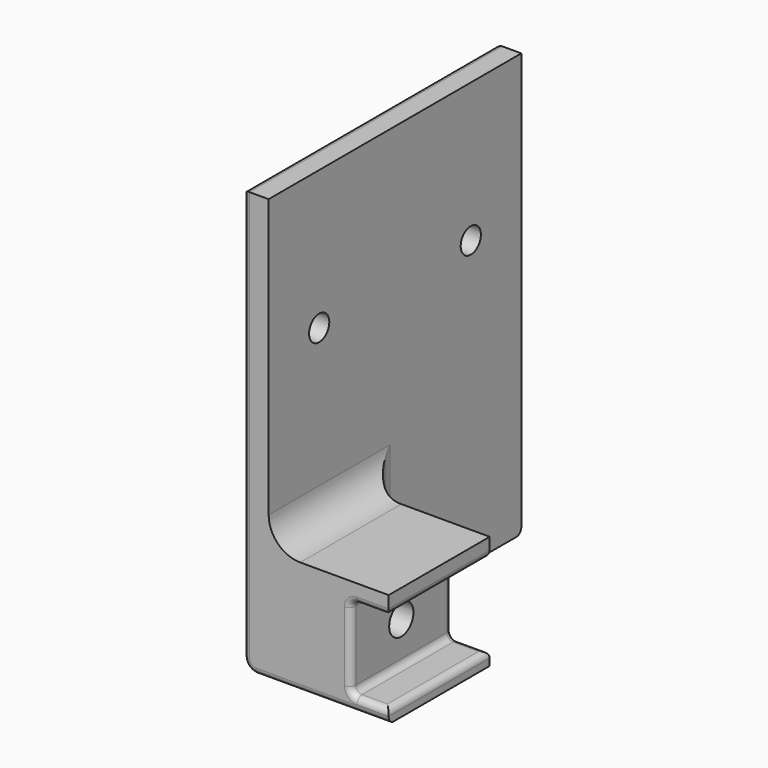
from build123d import *

# Parameters (mm, degrees)
PAD008_DEPTH    = 50
SKETCH046_R     = 2.4
SKETCH046_R_2   = 2
POCKET024_DEPTH = 30
SKETCH047_W     = 30
SKETCH047_H     = 35
POCKET025_DEPTH = 30
POCKET026_DEPTH = 5
FILLET014_R     = 4
FILLET015_R     = 1
FILLET016_R     = 1


with BuildPart() as part:
    # Sketch045 → Pad008 (new body)
    with BuildSketch(Plane.XZ):
        with BuildLine():
            Line((0, 47), (0, -18))
            ThreePointArc((0, -18), (0.585786, -19.414214), (2, -20))
            Line((2, -20), (23, -20))
            Line((23, -20), (23, -17.9))
            Line((17, -17.9), (23, -17.9))
            Line((17, -4.9), (17, -17.9))
            Line((17, -4.9), (23, -4.9))
            Line((23, -4.9), (23, -2))
            Line((23, -2), (9, -2))
            ThreePointArc((4, 3), (5.464466, -0.535534), (9, -2))
            Line((4, 3), (4, 47))
            Line((4, 47), (0, 47))
        make_face()
    extrude(amount=-PAD008_DEPTH)

    # Sketch046 → Pocket024 (cut)
    with BuildSketch(Plane.YZ):
        with Locations((10, -11.4)):
            Circle(SKETCH046_R)
        with Locations((10, 25)):
            Circle(SKETCH046_R_2)
        with Locations((40, 25)):
            Circle(SKETCH046_R_2)
    extrude(amount=POCKET024_DEPTH, mode=Mode.SUBTRACT)

    # Sketch047 → Pocket025 (cut)
    with BuildSketch(Plane.YZ.offset(4)):
        with Locations((35, -2.5)):
            Rectangle(SKETCH047_W, SKETCH047_H)
    extrude(amount=POCKET025_DEPTH, mode=Mode.SUBTRACT)

    # Sketch048 → Pocket026 (cut)
    with BuildSketch(Plane.YZ):
        Polygon((5.438933, -11.4), (7.719466, -15.35), (12.280534, -15.35), (14.561067, -11.4), (12.280534, -7.45), (7.719466, -7.45), align=None)
    extrude(amount=POCKET026_DEPTH, mode=Mode.SUBTRACT)

    # Fillet014
    fillet014_edges = [part.edges().sort_by_distance(p)[0] for p in [
        (4, 20, -8.5),
    ]]
    fillet(fillet014_edges, radius=FILLET014_R)

    # Fillet015
    fillet015_edges = [part.edges().sort_by_distance(p)[0] for p in [
        (20, 0, -4.9),
        (23, 10, -4.9),
        (17, 10, -4.9),
        (20, 20, -4.9),
        (17, 20, -11.4),
        (17, 0, -11.4),
        (23, 10, -17.9),
        (17, 10, -17.9),
        (20, 20, -17.9),
        (20, 0, -17.9),
    ]]
    fillet(fillet015_edges, radius=FILLET015_R)

    # Fillet016
    fillet016_edges = [part.edges().sort_by_distance(p)[0] for p in [
        (0, 0, 14.5),
        (0, 25, 47),
        (0, 50, 14.5),
    ]]
    fillet(fillet016_edges, radius=FILLET016_R)


solid = part.part
